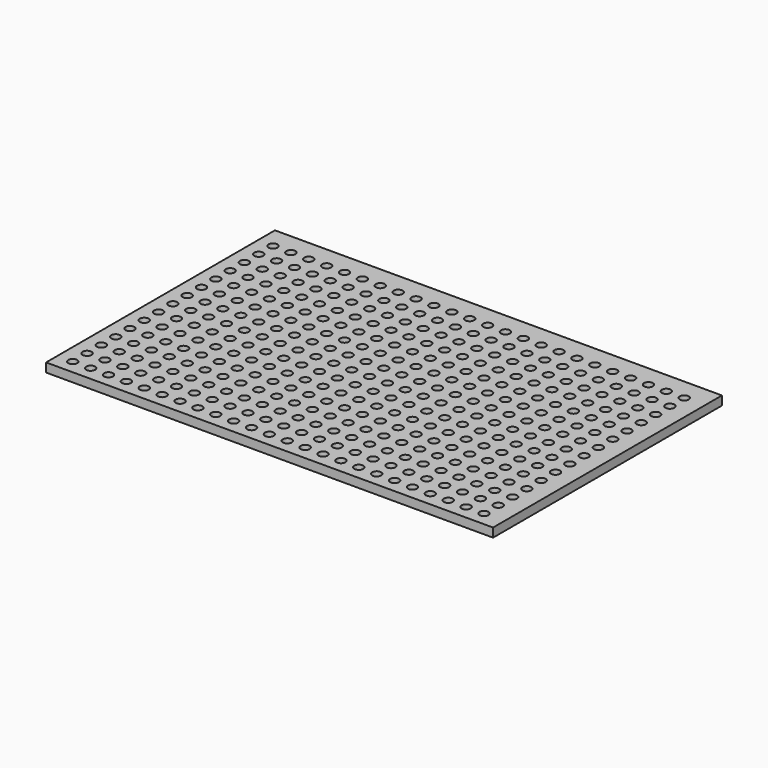
from build123d import *

# Parameters (mm, degrees)
F0_W     = 250
F0_H     = 160
F0_R     = 2.5
F1_DEPTH = 5


with BuildPart() as f1:
    # F0 (on Top) → F1 (new body)
    with BuildSketch(Plane.XY):
        Rectangle(F0_W, F0_H)
        with Locations((-116.384976, -72.114132)):
            Circle(F0_R, mode=Mode.SUBTRACT)
        with Locations((-106.384976, -72.114132)):
            Circle(F0_R, mode=Mode.SUBTRACT)
        with Locations((-96.384976, -72.114132)):
            Circle(F0_R, mode=Mode.SUBTRACT)
        with Locations((-116.384976, -62.114132)):
            Circle(F0_R, mode=Mode.SUBTRACT)
        with Locations((-106.384976, -62.114132)):
            Circle(F0_R, mode=Mode.SUBTRACT)
        with Locations((-96.384976, -62.114132)):
            Circle(F0_R, mode=Mode.SUBTRACT)
        with Locations((-86.384976, -72.114132)):
            Circle(F0_R, mode=Mode.SUBTRACT)
        with Locations((-76.384976, -72.114132)):
            Circle(F0_R, mode=Mode.SUBTRACT)
        with Locations((-66.384976, -72.114132)):
            Circle(F0_R, mode=Mode.SUBTRACT)
        with Locations((-86.384976, -62.114132)):
            Circle(F0_R, mode=Mode.SUBTRACT)
        with Locations((-76.384976, -62.114132)):
            Circle(F0_R, mode=Mode.SUBTRACT)
        with Locations((-66.384976, -62.114132)):
            Circle(F0_R, mode=Mode.SUBTRACT)
        with Locations((-116.384976, -52.114132)):
            Circle(F0_R, mode=Mode.SUBTRACT)
        with Locations((-106.384976, -52.114132)):
            Circle(F0_R, mode=Mode.SUBTRACT)
        with Locations((-96.384976, -52.114132)):
            Circle(F0_R, mode=Mode.SUBTRACT)
        with Locations((-116.384976, -42.114132)):
            Circle(F0_R, mode=Mode.SUBTRACT)
        with Locations((-106.384976, -42.114132)):
            Circle(F0_R, mode=Mode.SUBTRACT)
        with Locations((-96.384976, -42.114132)):
            Circle(F0_R, mode=Mode.SUBTRACT)
        with Locations((-86.384976, -52.114132)):
            Circle(F0_R, mode=Mode.SUBTRACT)
        with Locations((-76.384976, -52.114132)):
            Circle(F0_R, mode=Mode.SUBTRACT)
        with Locations((-66.384976, -52.114132)):
            Circle(F0_R, mode=Mode.SUBTRACT)
        with Locations((-86.384976, -42.114132)):
            Circle(F0_R, mode=Mode.SUBTRACT)
        with Locations((-76.384976, -42.114132)):
            Circle(F0_R, mode=Mode.SUBTRACT)
        with Locations((-66.384976, -42.114132)):
            Circle(F0_R, mode=Mode.SUBTRACT)
        with Locations((-56.384976, -72.114132)):
            Circle(F0_R, mode=Mode.SUBTRACT)
        with Locations((-46.384976, -72.114132)):
            Circle(F0_R, mode=Mode.SUBTRACT)
        with Locations((-36.384976, -72.114132)):
            Circle(F0_R, mode=Mode.SUBTRACT)
        with Locations((-56.384976, -62.114132)):
            Circle(F0_R, mode=Mode.SUBTRACT)
        with Locations((-46.384976, -62.114132)):
            Circle(F0_R, mode=Mode.SUBTRACT)
        with Locations((-36.384976, -62.114132)):
            Circle(F0_R, mode=Mode.SUBTRACT)
        with Locations((-26.384976, -72.114132)):
            Circle(F0_R, mode=Mode.SUBTRACT)
        with Locations((-16.384976, -72.114132)):
            Circle(F0_R, mode=Mode.SUBTRACT)
        with Locations((-6.384976, -72.114132)):
            Circle(F0_R, mode=Mode.SUBTRACT)
        with Locations((-26.384976, -62.114132)):
            Circle(F0_R, mode=Mode.SUBTRACT)
        with Locations((-16.384976, -62.114132)):
            Circle(F0_R, mode=Mode.SUBTRACT)
        with Locations((-6.384976, -62.114132)):
            Circle(F0_R, mode=Mode.SUBTRACT)
        with Locations((-56.384976, -52.114132)):
            Circle(F0_R, mode=Mode.SUBTRACT)
        with Locations((-46.384976, -52.114132)):
            Circle(F0_R, mode=Mode.SUBTRACT)
        with Locations((-36.384976, -52.114132)):
            Circle(F0_R, mode=Mode.SUBTRACT)
        with Locations((-56.384976, -42.114132)):
            Circle(F0_R, mode=Mode.SUBTRACT)
        with Locations((-46.384976, -42.114132)):
            Circle(F0_R, mode=Mode.SUBTRACT)
        with Locations((-36.384976, -42.114132)):
            Circle(F0_R, mode=Mode.SUBTRACT)
        with Locations((-26.384976, -52.114132)):
            Circle(F0_R, mode=Mode.SUBTRACT)
        with Locations((-16.384976, -52.114132)):
            Circle(F0_R, mode=Mode.SUBTRACT)
        with Locations((-6.384976, -52.114132)):
            Circle(F0_R, mode=Mode.SUBTRACT)
        with Locations((-26.384976, -42.114132)):
            Circle(F0_R, mode=Mode.SUBTRACT)
        with Locations((-16.384976, -42.114132)):
            Circle(F0_R, mode=Mode.SUBTRACT)
        with Locations((-6.384976, -42.114132)):
            Circle(F0_R, mode=Mode.SUBTRACT)
        with Locations((-116.384976, -32.114132)):
            Circle(F0_R, mode=Mode.SUBTRACT)
        with Locations((-106.384976, -32.114132)):
            Circle(F0_R, mode=Mode.SUBTRACT)
        with Locations((-96.384976, -32.114132)):
            Circle(F0_R, mode=Mode.SUBTRACT)
        with Locations((-116.384976, -22.114132)):
            Circle(F0_R, mode=Mode.SUBTRACT)
        with Locations((-106.384976, -22.114132)):
            Circle(F0_R, mode=Mode.SUBTRACT)
        with Locations((-96.384976, -22.114132)):
            Circle(F0_R, mode=Mode.SUBTRACT)
        with Locations((-86.384976, -32.114132)):
            Circle(F0_R, mode=Mode.SUBTRACT)
        with Locations((-76.384976, -32.114132)):
            Circle(F0_R, mode=Mode.SUBTRACT)
        with Locations((-66.384976, -32.114132)):
            Circle(F0_R, mode=Mode.SUBTRACT)
        with Locations((-86.384976, -22.114132)):
            Circle(F0_R, mode=Mode.SUBTRACT)
        with Locations((-76.384976, -22.114132)):
            Circle(F0_R, mode=Mode.SUBTRACT)
        with Locations((-66.384976, -22.114132)):
            Circle(F0_R, mode=Mode.SUBTRACT)
        with Locations((-116.384976, -12.114132)):
            Circle(F0_R, mode=Mode.SUBTRACT)
        with Locations((-106.384976, -12.114132)):
            Circle(F0_R, mode=Mode.SUBTRACT)
        with Locations((-96.384976, -12.114132)):
            Circle(F0_R, mode=Mode.SUBTRACT)
        with Locations((-116.384976, -2.114132)):
            Circle(F0_R, mode=Mode.SUBTRACT)
        with Locations((-106.384976, -2.114132)):
            Circle(F0_R, mode=Mode.SUBTRACT)
        with Locations((-96.384976, -2.114132)):
            Circle(F0_R, mode=Mode.SUBTRACT)
        with Locations((-86.384976, -12.114132)):
            Circle(F0_R, mode=Mode.SUBTRACT)
        with Locations((-76.384976, -12.114132)):
            Circle(F0_R, mode=Mode.SUBTRACT)
        with Locations((-66.384976, -12.114132)):
            Circle(F0_R, mode=Mode.SUBTRACT)
        with Locations((-86.384976, -2.114132)):
            Circle(F0_R, mode=Mode.SUBTRACT)
        with Locations((-76.384976, -2.114132)):
            Circle(F0_R, mode=Mode.SUBTRACT)
        with Locations((-66.384976, -2.114132)):
            Circle(F0_R, mode=Mode.SUBTRACT)
        with Locations((-56.384976, -32.114132)):
            Circle(F0_R, mode=Mode.SUBTRACT)
        with Locations((-46.384976, -32.114132)):
            Circle(F0_R, mode=Mode.SUBTRACT)
        with Locations((-36.384976, -32.114132)):
            Circle(F0_R, mode=Mode.SUBTRACT)
        with Locations((-56.384976, -22.114132)):
            Circle(F0_R, mode=Mode.SUBTRACT)
        with Locations((-46.384976, -22.114132)):
            Circle(F0_R, mode=Mode.SUBTRACT)
        with Locations((-36.384976, -22.114132)):
            Circle(F0_R, mode=Mode.SUBTRACT)
        with Locations((-26.384976, -32.114132)):
            Circle(F0_R, mode=Mode.SUBTRACT)
        with Locations((-16.384976, -32.114132)):
            Circle(F0_R, mode=Mode.SUBTRACT)
        with Locations((-6.384976, -32.114132)):
            Circle(F0_R, mode=Mode.SUBTRACT)
        with Locations((-26.384976, -22.114132)):
            Circle(F0_R, mode=Mode.SUBTRACT)
        with Locations((-16.384976, -22.114132)):
            Circle(F0_R, mode=Mode.SUBTRACT)
        with Locations((-6.384976, -22.114132)):
            Circle(F0_R, mode=Mode.SUBTRACT)
        with Locations((-56.384976, -12.114132)):
            Circle(F0_R, mode=Mode.SUBTRACT)
        with Locations((-46.384976, -12.114132)):
            Circle(F0_R, mode=Mode.SUBTRACT)
        with Locations((-36.384976, -12.114132)):
            Circle(F0_R, mode=Mode.SUBTRACT)
        with Locations((-56.384976, -2.114132)):
            Circle(F0_R, mode=Mode.SUBTRACT)
        with Locations((-46.384976, -2.114132)):
            Circle(F0_R, mode=Mode.SUBTRACT)
        with Locations((-36.384976, -2.114132)):
            Circle(F0_R, mode=Mode.SUBTRACT)
        with Locations((-26.384976, -12.114132)):
            Circle(F0_R, mode=Mode.SUBTRACT)
        with Locations((-16.384976, -12.114132)):
            Circle(F0_R, mode=Mode.SUBTRACT)
        with Locations((-6.384976, -12.114132)):
            Circle(F0_R, mode=Mode.SUBTRACT)
        with Locations((-26.384976, -2.114132)):
            Circle(F0_R, mode=Mode.SUBTRACT)
        with Locations((-16.384976, -2.114132)):
            Circle(F0_R, mode=Mode.SUBTRACT)
        with Locations((-6.384976, -2.114132)):
            Circle(F0_R, mode=Mode.SUBTRACT)
        with Locations((3.615024, -72.114132)):
            Circle(F0_R, mode=Mode.SUBTRACT)
        with Locations((13.615024, -72.114132)):
            Circle(F0_R, mode=Mode.SUBTRACT)
        with Locations((23.615024, -72.114132)):
            Circle(F0_R, mode=Mode.SUBTRACT)
        with Locations((3.615024, -62.114132)):
            Circle(F0_R, mode=Mode.SUBTRACT)
        with Locations((13.615024, -62.114132)):
            Circle(F0_R, mode=Mode.SUBTRACT)
        with Locations((23.615024, -62.114132)):
            Circle(F0_R, mode=Mode.SUBTRACT)
        with Locations((33.615024, -72.114132)):
            Circle(F0_R, mode=Mode.SUBTRACT)
        with Locations((43.615024, -72.114132)):
            Circle(F0_R, mode=Mode.SUBTRACT)
        with Locations((53.615024, -72.114132)):
            Circle(F0_R, mode=Mode.SUBTRACT)
        with Locations((33.615024, -62.114132)):
            Circle(F0_R, mode=Mode.SUBTRACT)
        with Locations((43.615024, -62.114132)):
            Circle(F0_R, mode=Mode.SUBTRACT)
        with Locations((53.615024, -62.114132)):
            Circle(F0_R, mode=Mode.SUBTRACT)
        with Locations((3.615024, -52.114132)):
            Circle(F0_R, mode=Mode.SUBTRACT)
        with Locations((13.615024, -52.114132)):
            Circle(F0_R, mode=Mode.SUBTRACT)
        with Locations((23.615024, -52.114132)):
            Circle(F0_R, mode=Mode.SUBTRACT)
        with Locations((3.615024, -42.114132)):
            Circle(F0_R, mode=Mode.SUBTRACT)
        with Locations((13.615024, -42.114132)):
            Circle(F0_R, mode=Mode.SUBTRACT)
        with Locations((23.615024, -42.114132)):
            Circle(F0_R, mode=Mode.SUBTRACT)
        with Locations((33.615024, -52.114132)):
            Circle(F0_R, mode=Mode.SUBTRACT)
        with Locations((43.615024, -52.114132)):
            Circle(F0_R, mode=Mode.SUBTRACT)
        with Locations((53.615024, -52.114132)):
            Circle(F0_R, mode=Mode.SUBTRACT)
        with Locations((33.615024, -42.114132)):
            Circle(F0_R, mode=Mode.SUBTRACT)
        with Locations((43.615024, -42.114132)):
            Circle(F0_R, mode=Mode.SUBTRACT)
        with Locations((53.615024, -42.114132)):
            Circle(F0_R, mode=Mode.SUBTRACT)
        with Locations((63.615024, -72.114132)):
            Circle(F0_R, mode=Mode.SUBTRACT)
        with Locations((73.615024, -72.114132)):
            Circle(F0_R, mode=Mode.SUBTRACT)
        with Locations((83.615024, -72.114132)):
            Circle(F0_R, mode=Mode.SUBTRACT)
        with Locations((93.615024, -72.114132)):
            Circle(F0_R, mode=Mode.SUBTRACT)
        with Locations((63.615024, -62.114132)):
            Circle(F0_R, mode=Mode.SUBTRACT)
        with Locations((73.615024, -62.114132)):
            Circle(F0_R, mode=Mode.SUBTRACT)
        with Locations((83.615024, -62.114132)):
            Circle(F0_R, mode=Mode.SUBTRACT)
        with Locations((93.615024, -62.114132)):
            Circle(F0_R, mode=Mode.SUBTRACT)
        with Locations((103.615024, -72.114132)):
            Circle(F0_R, mode=Mode.SUBTRACT)
        with Locations((113.615024, -72.114132)):
            Circle(F0_R, mode=Mode.SUBTRACT)
        with Locations((103.615024, -62.114132)):
            Circle(F0_R, mode=Mode.SUBTRACT)
        with Locations((113.615024, -62.114132)):
            Circle(F0_R, mode=Mode.SUBTRACT)
        with Locations((63.615024, -52.114132)):
            Circle(F0_R, mode=Mode.SUBTRACT)
        with Locations((73.615024, -52.114132)):
            Circle(F0_R, mode=Mode.SUBTRACT)
        with Locations((83.615024, -52.114132)):
            Circle(F0_R, mode=Mode.SUBTRACT)
        with Locations((93.615024, -52.114132)):
            Circle(F0_R, mode=Mode.SUBTRACT)
        with Locations((63.615024, -42.114132)):
            Circle(F0_R, mode=Mode.SUBTRACT)
        with Locations((73.615024, -42.114132)):
            Circle(F0_R, mode=Mode.SUBTRACT)
        with Locations((83.615024, -42.114132)):
            Circle(F0_R, mode=Mode.SUBTRACT)
        with Locations((93.615024, -42.114132)):
            Circle(F0_R, mode=Mode.SUBTRACT)
        with Locations((103.615024, -52.114132)):
            Circle(F0_R, mode=Mode.SUBTRACT)
        with Locations((113.615024, -52.114132)):
            Circle(F0_R, mode=Mode.SUBTRACT)
        with Locations((103.615024, -42.114132)):
            Circle(F0_R, mode=Mode.SUBTRACT)
        with Locations((113.615024, -42.114132)):
            Circle(F0_R, mode=Mode.SUBTRACT)
        with Locations((3.615024, -32.114132)):
            Circle(F0_R, mode=Mode.SUBTRACT)
        with Locations((13.615024, -32.114132)):
            Circle(F0_R, mode=Mode.SUBTRACT)
        with Locations((23.615024, -32.114132)):
            Circle(F0_R, mode=Mode.SUBTRACT)
        with Locations((3.615024, -22.114132)):
            Circle(F0_R, mode=Mode.SUBTRACT)
        with Locations((13.615024, -22.114132)):
            Circle(F0_R, mode=Mode.SUBTRACT)
        with Locations((23.615024, -22.114132)):
            Circle(F0_R, mode=Mode.SUBTRACT)
        with Locations((33.615024, -32.114132)):
            Circle(F0_R, mode=Mode.SUBTRACT)
        with Locations((43.615024, -32.114132)):
            Circle(F0_R, mode=Mode.SUBTRACT)
        with Locations((53.615024, -32.114132)):
            Circle(F0_R, mode=Mode.SUBTRACT)
        with Locations((33.615024, -22.114132)):
            Circle(F0_R, mode=Mode.SUBTRACT)
        with Locations((43.615024, -22.114132)):
            Circle(F0_R, mode=Mode.SUBTRACT)
        with Locations((53.615024, -22.114132)):
            Circle(F0_R, mode=Mode.SUBTRACT)
        with Locations((3.615024, -12.114132)):
            Circle(F0_R, mode=Mode.SUBTRACT)
        with Locations((13.615024, -12.114132)):
            Circle(F0_R, mode=Mode.SUBTRACT)
        with Locations((23.615024, -12.114132)):
            Circle(F0_R, mode=Mode.SUBTRACT)
        with Locations((3.615024, -2.114132)):
            Circle(F0_R, mode=Mode.SUBTRACT)
        with Locations((13.615024, -2.114132)):
            Circle(F0_R, mode=Mode.SUBTRACT)
        with Locations((23.615024, -2.114132)):
            Circle(F0_R, mode=Mode.SUBTRACT)
        with Locations((33.615024, -12.114132)):
            Circle(F0_R, mode=Mode.SUBTRACT)
        with Locations((43.615024, -12.114132)):
            Circle(F0_R, mode=Mode.SUBTRACT)
        with Locations((53.615024, -12.114132)):
            Circle(F0_R, mode=Mode.SUBTRACT)
        with Locations((33.615024, -2.114132)):
            Circle(F0_R, mode=Mode.SUBTRACT)
        with Locations((43.615024, -2.114132)):
            Circle(F0_R, mode=Mode.SUBTRACT)
        with Locations((53.615024, -2.114132)):
            Circle(F0_R, mode=Mode.SUBTRACT)
        with Locations((63.615024, -32.114132)):
            Circle(F0_R, mode=Mode.SUBTRACT)
        with Locations((73.615024, -32.114132)):
            Circle(F0_R, mode=Mode.SUBTRACT)
        with Locations((83.615024, -32.114132)):
            Circle(F0_R, mode=Mode.SUBTRACT)
        with Locations((93.615024, -32.114132)):
            Circle(F0_R, mode=Mode.SUBTRACT)
        with Locations((63.615024, -22.114132)):
            Circle(F0_R, mode=Mode.SUBTRACT)
        with Locations((73.615024, -22.114132)):
            Circle(F0_R, mode=Mode.SUBTRACT)
        with Locations((83.615024, -22.114132)):
            Circle(F0_R, mode=Mode.SUBTRACT)
        with Locations((93.615024, -22.114132)):
            Circle(F0_R, mode=Mode.SUBTRACT)
        with Locations((103.615024, -32.114132)):
            Circle(F0_R, mode=Mode.SUBTRACT)
        with Locations((113.615024, -32.114132)):
            Circle(F0_R, mode=Mode.SUBTRACT)
        with Locations((103.615024, -22.114132)):
            Circle(F0_R, mode=Mode.SUBTRACT)
        with Locations((113.615024, -22.114132)):
            Circle(F0_R, mode=Mode.SUBTRACT)
        with Locations((63.615024, -12.114132)):
            Circle(F0_R, mode=Mode.SUBTRACT)
        with Locations((73.615024, -12.114132)):
            Circle(F0_R, mode=Mode.SUBTRACT)
        with Locations((83.615024, -12.114132)):
            Circle(F0_R, mode=Mode.SUBTRACT)
        with Locations((93.615024, -12.114132)):
            Circle(F0_R, mode=Mode.SUBTRACT)
        with Locations((63.615024, -2.114132)):
            Circle(F0_R, mode=Mode.SUBTRACT)
        with Locations((73.615024, -2.114132)):
            Circle(F0_R, mode=Mode.SUBTRACT)
        with Locations((83.615024, -2.114132)):
            Circle(F0_R, mode=Mode.SUBTRACT)
        with Locations((93.615024, -2.114132)):
            Circle(F0_R, mode=Mode.SUBTRACT)
        with Locations((103.615024, -12.114132)):
            Circle(F0_R, mode=Mode.SUBTRACT)
        with Locations((113.615024, -12.114132)):
            Circle(F0_R, mode=Mode.SUBTRACT)
        with Locations((103.615024, -2.114132)):
            Circle(F0_R, mode=Mode.SUBTRACT)
        with Locations((113.615024, -2.114132)):
            Circle(F0_R, mode=Mode.SUBTRACT)
        with Locations((-116.384976, 7.885868)):
            Circle(F0_R, mode=Mode.SUBTRACT)
        with Locations((-106.384976, 7.885868)):
            Circle(F0_R, mode=Mode.SUBTRACT)
        with Locations((-96.384976, 7.885868)):
            Circle(F0_R, mode=Mode.SUBTRACT)
        with Locations((-116.384976, 17.885868)):
            Circle(F0_R, mode=Mode.SUBTRACT)
        with Locations((-106.384976, 17.885868)):
            Circle(F0_R, mode=Mode.SUBTRACT)
        with Locations((-96.384976, 17.885868)):
            Circle(F0_R, mode=Mode.SUBTRACT)
        with Locations((-86.384976, 7.885868)):
            Circle(F0_R, mode=Mode.SUBTRACT)
        with Locations((-76.384976, 7.885868)):
            Circle(F0_R, mode=Mode.SUBTRACT)
        with Locations((-66.384976, 7.885868)):
            Circle(F0_R, mode=Mode.SUBTRACT)
        with Locations((-86.384976, 17.885868)):
            Circle(F0_R, mode=Mode.SUBTRACT)
        with Locations((-76.384976, 17.885868)):
            Circle(F0_R, mode=Mode.SUBTRACT)
        with Locations((-66.384976, 17.885868)):
            Circle(F0_R, mode=Mode.SUBTRACT)
        with Locations((-116.384976, 27.885868)):
            Circle(F0_R, mode=Mode.SUBTRACT)
        with Locations((-106.384976, 27.885868)):
            Circle(F0_R, mode=Mode.SUBTRACT)
        with Locations((-96.384976, 27.885868)):
            Circle(F0_R, mode=Mode.SUBTRACT)
        with Locations((-116.384976, 37.885868)):
            Circle(F0_R, mode=Mode.SUBTRACT)
        with Locations((-106.384976, 37.885868)):
            Circle(F0_R, mode=Mode.SUBTRACT)
        with Locations((-96.384976, 37.885868)):
            Circle(F0_R, mode=Mode.SUBTRACT)
        with Locations((-86.384976, 27.885868)):
            Circle(F0_R, mode=Mode.SUBTRACT)
        with Locations((-76.384976, 27.885868)):
            Circle(F0_R, mode=Mode.SUBTRACT)
        with Locations((-66.384976, 27.885868)):
            Circle(F0_R, mode=Mode.SUBTRACT)
        with Locations((-86.384976, 37.885868)):
            Circle(F0_R, mode=Mode.SUBTRACT)
        with Locations((-76.384976, 37.885868)):
            Circle(F0_R, mode=Mode.SUBTRACT)
        with Locations((-66.384976, 37.885868)):
            Circle(F0_R, mode=Mode.SUBTRACT)
        with Locations((-56.384976, 7.885868)):
            Circle(F0_R, mode=Mode.SUBTRACT)
        with Locations((-46.384976, 7.885868)):
            Circle(F0_R, mode=Mode.SUBTRACT)
        with Locations((-36.384976, 7.885868)):
            Circle(F0_R, mode=Mode.SUBTRACT)
        with Locations((-56.384976, 17.885868)):
            Circle(F0_R, mode=Mode.SUBTRACT)
        with Locations((-46.384976, 17.885868)):
            Circle(F0_R, mode=Mode.SUBTRACT)
        with Locations((-36.384976, 17.885868)):
            Circle(F0_R, mode=Mode.SUBTRACT)
        with Locations((-26.384976, 7.885868)):
            Circle(F0_R, mode=Mode.SUBTRACT)
        with Locations((-16.384976, 7.885868)):
            Circle(F0_R, mode=Mode.SUBTRACT)
        with Locations((-6.384976, 7.885868)):
            Circle(F0_R, mode=Mode.SUBTRACT)
        with Locations((-26.384976, 17.885868)):
            Circle(F0_R, mode=Mode.SUBTRACT)
        with Locations((-16.384976, 17.885868)):
            Circle(F0_R, mode=Mode.SUBTRACT)
        with Locations((-6.384976, 17.885868)):
            Circle(F0_R, mode=Mode.SUBTRACT)
        with Locations((-56.384976, 27.885868)):
            Circle(F0_R, mode=Mode.SUBTRACT)
        with Locations((-46.384976, 27.885868)):
            Circle(F0_R, mode=Mode.SUBTRACT)
        with Locations((-36.384976, 27.885868)):
            Circle(F0_R, mode=Mode.SUBTRACT)
        with Locations((-56.384976, 37.885868)):
            Circle(F0_R, mode=Mode.SUBTRACT)
        with Locations((-46.384976, 37.885868)):
            Circle(F0_R, mode=Mode.SUBTRACT)
        with Locations((-36.384976, 37.885868)):
            Circle(F0_R, mode=Mode.SUBTRACT)
        with Locations((-26.384976, 27.885868)):
            Circle(F0_R, mode=Mode.SUBTRACT)
        with Locations((-16.384976, 27.885868)):
            Circle(F0_R, mode=Mode.SUBTRACT)
        with Locations((-6.384976, 27.885868)):
            Circle(F0_R, mode=Mode.SUBTRACT)
        with Locations((-26.384976, 37.885868)):
            Circle(F0_R, mode=Mode.SUBTRACT)
        with Locations((-16.384976, 37.885868)):
            Circle(F0_R, mode=Mode.SUBTRACT)
        with Locations((-6.384976, 37.885868)):
            Circle(F0_R, mode=Mode.SUBTRACT)
        with Locations((-116.384976, 47.885868)):
            Circle(F0_R, mode=Mode.SUBTRACT)
        with Locations((-106.384976, 47.885868)):
            Circle(F0_R, mode=Mode.SUBTRACT)
        with Locations((-96.384976, 47.885868)):
            Circle(F0_R, mode=Mode.SUBTRACT)
        with Locations((-116.384976, 57.885868)):
            Circle(F0_R, mode=Mode.SUBTRACT)
        with Locations((-106.384976, 57.885868)):
            Circle(F0_R, mode=Mode.SUBTRACT)
        with Locations((-96.384976, 57.885868)):
            Circle(F0_R, mode=Mode.SUBTRACT)
        with Locations((-86.384976, 47.885868)):
            Circle(F0_R, mode=Mode.SUBTRACT)
        with Locations((-76.384976, 47.885868)):
            Circle(F0_R, mode=Mode.SUBTRACT)
        with Locations((-66.384976, 47.885868)):
            Circle(F0_R, mode=Mode.SUBTRACT)
        with Locations((-86.384976, 57.885868)):
            Circle(F0_R, mode=Mode.SUBTRACT)
        with Locations((-76.384976, 57.885868)):
            Circle(F0_R, mode=Mode.SUBTRACT)
        with Locations((-66.384976, 57.885868)):
            Circle(F0_R, mode=Mode.SUBTRACT)
        with Locations((-116.384976, 67.885868)):
            Circle(F0_R, mode=Mode.SUBTRACT)
        with Locations((-106.384976, 67.885868)):
            Circle(F0_R, mode=Mode.SUBTRACT)
        with Locations((-96.384976, 67.885868)):
            Circle(F0_R, mode=Mode.SUBTRACT)
        with Locations((-86.384976, 67.885868)):
            Circle(F0_R, mode=Mode.SUBTRACT)
        with Locations((-76.384976, 67.885868)):
            Circle(F0_R, mode=Mode.SUBTRACT)
        with Locations((-66.384976, 67.885868)):
            Circle(F0_R, mode=Mode.SUBTRACT)
        with Locations((-56.384976, 47.885868)):
            Circle(F0_R, mode=Mode.SUBTRACT)
        with Locations((-46.384976, 47.885868)):
            Circle(F0_R, mode=Mode.SUBTRACT)
        with Locations((-36.384976, 47.885868)):
            Circle(F0_R, mode=Mode.SUBTRACT)
        with Locations((-56.384976, 57.885868)):
            Circle(F0_R, mode=Mode.SUBTRACT)
        with Locations((-46.384976, 57.885868)):
            Circle(F0_R, mode=Mode.SUBTRACT)
        with Locations((-36.384976, 57.885868)):
            Circle(F0_R, mode=Mode.SUBTRACT)
        with Locations((-26.384976, 47.885868)):
            Circle(F0_R, mode=Mode.SUBTRACT)
        with Locations((-16.384976, 47.885868)):
            Circle(F0_R, mode=Mode.SUBTRACT)
        with Locations((-6.384976, 47.885868)):
            Circle(F0_R, mode=Mode.SUBTRACT)
        with Locations((-26.384976, 57.885868)):
            Circle(F0_R, mode=Mode.SUBTRACT)
        with Locations((-16.384976, 57.885868)):
            Circle(F0_R, mode=Mode.SUBTRACT)
        with Locations((-6.384976, 57.885868)):
            Circle(F0_R, mode=Mode.SUBTRACT)
        with Locations((-56.384976, 67.885868)):
            Circle(F0_R, mode=Mode.SUBTRACT)
        with Locations((-46.384976, 67.885868)):
            Circle(F0_R, mode=Mode.SUBTRACT)
        with Locations((-36.384976, 67.885868)):
            Circle(F0_R, mode=Mode.SUBTRACT)
        with Locations((-26.384976, 67.885868)):
            Circle(F0_R, mode=Mode.SUBTRACT)
        with Locations((-16.384976, 67.885868)):
            Circle(F0_R, mode=Mode.SUBTRACT)
        with Locations((-6.384976, 67.885868)):
            Circle(F0_R, mode=Mode.SUBTRACT)
        with Locations((3.615024, 7.885868)):
            Circle(F0_R, mode=Mode.SUBTRACT)
        with Locations((13.615024, 7.885868)):
            Circle(F0_R, mode=Mode.SUBTRACT)
        with Locations((23.615024, 7.885868)):
            Circle(F0_R, mode=Mode.SUBTRACT)
        with Locations((3.615024, 17.885868)):
            Circle(F0_R, mode=Mode.SUBTRACT)
        with Locations((13.615024, 17.885868)):
            Circle(F0_R, mode=Mode.SUBTRACT)
        with Locations((23.615024, 17.885868)):
            Circle(F0_R, mode=Mode.SUBTRACT)
        with Locations((33.615024, 7.885868)):
            Circle(F0_R, mode=Mode.SUBTRACT)
        with Locations((43.615024, 7.885868)):
            Circle(F0_R, mode=Mode.SUBTRACT)
        with Locations((53.615024, 7.885868)):
            Circle(F0_R, mode=Mode.SUBTRACT)
        with Locations((33.615024, 17.885868)):
            Circle(F0_R, mode=Mode.SUBTRACT)
        with Locations((43.615024, 17.885868)):
            Circle(F0_R, mode=Mode.SUBTRACT)
        with Locations((53.615024, 17.885868)):
            Circle(F0_R, mode=Mode.SUBTRACT)
        with Locations((3.615024, 27.885868)):
            Circle(F0_R, mode=Mode.SUBTRACT)
        with Locations((13.615024, 27.885868)):
            Circle(F0_R, mode=Mode.SUBTRACT)
        with Locations((23.615024, 27.885868)):
            Circle(F0_R, mode=Mode.SUBTRACT)
        with Locations((3.615024, 37.885868)):
            Circle(F0_R, mode=Mode.SUBTRACT)
        with Locations((13.615024, 37.885868)):
            Circle(F0_R, mode=Mode.SUBTRACT)
        with Locations((23.615024, 37.885868)):
            Circle(F0_R, mode=Mode.SUBTRACT)
        with Locations((33.615024, 27.885868)):
            Circle(F0_R, mode=Mode.SUBTRACT)
        with Locations((43.615024, 27.885868)):
            Circle(F0_R, mode=Mode.SUBTRACT)
        with Locations((53.615024, 27.885868)):
            Circle(F0_R, mode=Mode.SUBTRACT)
        with Locations((33.615024, 37.885868)):
            Circle(F0_R, mode=Mode.SUBTRACT)
        with Locations((43.615024, 37.885868)):
            Circle(F0_R, mode=Mode.SUBTRACT)
        with Locations((53.615024, 37.885868)):
            Circle(F0_R, mode=Mode.SUBTRACT)
        with Locations((63.615024, 7.885868)):
            Circle(F0_R, mode=Mode.SUBTRACT)
        with Locations((73.615024, 7.885868)):
            Circle(F0_R, mode=Mode.SUBTRACT)
        with Locations((83.615024, 7.885868)):
            Circle(F0_R, mode=Mode.SUBTRACT)
        with Locations((93.615024, 7.885868)):
            Circle(F0_R, mode=Mode.SUBTRACT)
        with Locations((63.615024, 17.885868)):
            Circle(F0_R, mode=Mode.SUBTRACT)
        with Locations((73.615024, 17.885868)):
            Circle(F0_R, mode=Mode.SUBTRACT)
        with Locations((83.615024, 17.885868)):
            Circle(F0_R, mode=Mode.SUBTRACT)
        with Locations((93.615024, 17.885868)):
            Circle(F0_R, mode=Mode.SUBTRACT)
        with Locations((103.615024, 7.885868)):
            Circle(F0_R, mode=Mode.SUBTRACT)
        with Locations((113.615024, 7.885868)):
            Circle(F0_R, mode=Mode.SUBTRACT)
        with Locations((103.615024, 17.885868)):
            Circle(F0_R, mode=Mode.SUBTRACT)
        with Locations((113.615024, 17.885868)):
            Circle(F0_R, mode=Mode.SUBTRACT)
        with Locations((63.615024, 27.885868)):
            Circle(F0_R, mode=Mode.SUBTRACT)
        with Locations((73.615024, 27.885868)):
            Circle(F0_R, mode=Mode.SUBTRACT)
        with Locations((83.615024, 27.885868)):
            Circle(F0_R, mode=Mode.SUBTRACT)
        with Locations((93.615024, 27.885868)):
            Circle(F0_R, mode=Mode.SUBTRACT)
        with Locations((63.615024, 37.885868)):
            Circle(F0_R, mode=Mode.SUBTRACT)
        with Locations((73.615024, 37.885868)):
            Circle(F0_R, mode=Mode.SUBTRACT)
        with Locations((83.615024, 37.885868)):
            Circle(F0_R, mode=Mode.SUBTRACT)
        with Locations((93.615024, 37.885868)):
            Circle(F0_R, mode=Mode.SUBTRACT)
        with Locations((103.615024, 27.885868)):
            Circle(F0_R, mode=Mode.SUBTRACT)
        with Locations((113.615024, 27.885868)):
            Circle(F0_R, mode=Mode.SUBTRACT)
        with Locations((103.615024, 37.885868)):
            Circle(F0_R, mode=Mode.SUBTRACT)
        with Locations((113.615024, 37.885868)):
            Circle(F0_R, mode=Mode.SUBTRACT)
        with Locations((3.615024, 47.885868)):
            Circle(F0_R, mode=Mode.SUBTRACT)
        with Locations((13.615024, 47.885868)):
            Circle(F0_R, mode=Mode.SUBTRACT)
        with Locations((23.615024, 47.885868)):
            Circle(F0_R, mode=Mode.SUBTRACT)
        with Locations((3.615024, 57.885868)):
            Circle(F0_R, mode=Mode.SUBTRACT)
        with Locations((13.615024, 57.885868)):
            Circle(F0_R, mode=Mode.SUBTRACT)
        with Locations((23.615024, 57.885868)):
            Circle(F0_R, mode=Mode.SUBTRACT)
        with Locations((33.615024, 47.885868)):
            Circle(F0_R, mode=Mode.SUBTRACT)
        with Locations((43.615024, 47.885868)):
            Circle(F0_R, mode=Mode.SUBTRACT)
        with Locations((53.615024, 47.885868)):
            Circle(F0_R, mode=Mode.SUBTRACT)
        with Locations((33.615024, 57.885868)):
            Circle(F0_R, mode=Mode.SUBTRACT)
        with Locations((43.615024, 57.885868)):
            Circle(F0_R, mode=Mode.SUBTRACT)
        with Locations((53.615024, 57.885868)):
            Circle(F0_R, mode=Mode.SUBTRACT)
        with Locations((3.615024, 67.885868)):
            Circle(F0_R, mode=Mode.SUBTRACT)
        with Locations((13.615024, 67.885868)):
            Circle(F0_R, mode=Mode.SUBTRACT)
        with Locations((23.615024, 67.885868)):
            Circle(F0_R, mode=Mode.SUBTRACT)
        with Locations((33.615024, 67.885868)):
            Circle(F0_R, mode=Mode.SUBTRACT)
        with Locations((43.615024, 67.885868)):
            Circle(F0_R, mode=Mode.SUBTRACT)
        with Locations((53.615024, 67.885868)):
            Circle(F0_R, mode=Mode.SUBTRACT)
        with Locations((63.615024, 47.885868)):
            Circle(F0_R, mode=Mode.SUBTRACT)
        with Locations((73.615024, 47.885868)):
            Circle(F0_R, mode=Mode.SUBTRACT)
        with Locations((83.615024, 47.885868)):
            Circle(F0_R, mode=Mode.SUBTRACT)
        with Locations((93.615024, 47.885868)):
            Circle(F0_R, mode=Mode.SUBTRACT)
        with Locations((63.615024, 57.885868)):
            Circle(F0_R, mode=Mode.SUBTRACT)
        with Locations((73.615024, 57.885868)):
            Circle(F0_R, mode=Mode.SUBTRACT)
        with Locations((83.615024, 57.885868)):
            Circle(F0_R, mode=Mode.SUBTRACT)
        with Locations((93.615024, 57.885868)):
            Circle(F0_R, mode=Mode.SUBTRACT)
        with Locations((103.615024, 47.885868)):
            Circle(F0_R, mode=Mode.SUBTRACT)
        with Locations((113.615024, 47.885868)):
            Circle(F0_R, mode=Mode.SUBTRACT)
        with Locations((103.615024, 57.885868)):
            Circle(F0_R, mode=Mode.SUBTRACT)
        with Locations((113.615024, 57.885868)):
            Circle(F0_R, mode=Mode.SUBTRACT)
        with Locations((63.615024, 67.885868)):
            Circle(F0_R, mode=Mode.SUBTRACT)
        with Locations((73.615024, 67.885868)):
            Circle(F0_R, mode=Mode.SUBTRACT)
        with Locations((83.615024, 67.885868)):
            Circle(F0_R, mode=Mode.SUBTRACT)
        with Locations((93.615024, 67.885868)):
            Circle(F0_R, mode=Mode.SUBTRACT)
        with Locations((103.615024, 67.885868)):
            Circle(F0_R, mode=Mode.SUBTRACT)
        with Locations((113.615024, 67.885868)):
            Circle(F0_R, mode=Mode.SUBTRACT)
    extrude(amount=F1_DEPTH)


solid = f1.part
